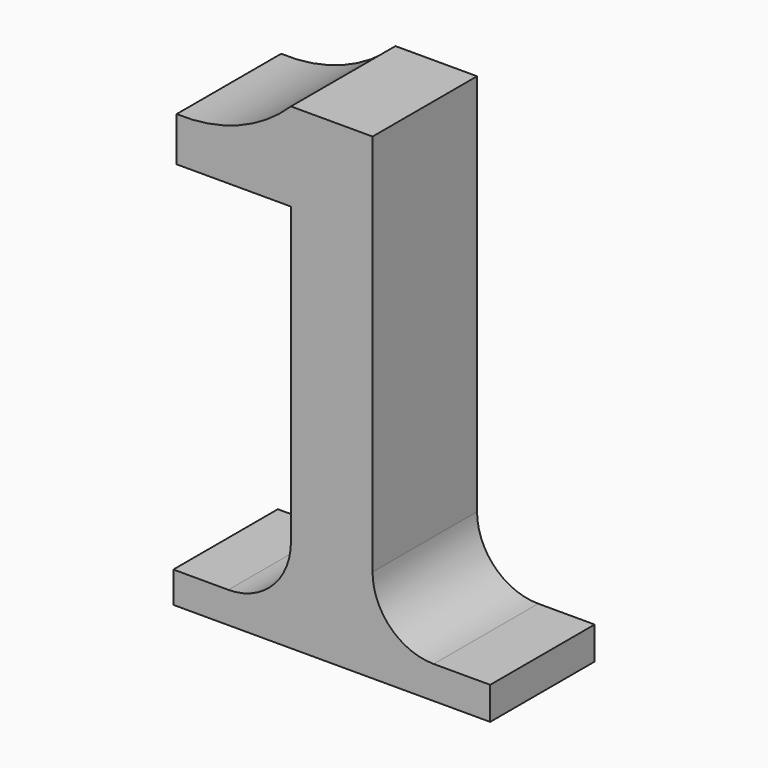
from build123d import *

# Parameters (mm, degrees)
F1_DEPTH = 10.16


with BuildPart() as f1:
    # F0 (on Front) → F1 (new body)
    with BuildSketch(Plane.XZ):
        with BuildLine():
            Line((3.175, -12.531403), (3.175, 17.285798))
            Line((3.175, 17.285798), (-3.175, 17.285798))
            ThreePointArc((-3.175, 17.285798), (-7.266525, 14.65801), (-12.065, 13.870302))
            Line((-12.065, 13.870302), (-12.065, 10.425861))
            Line((-12.065, 10.425861), (-3.175, 10.425861))
            Line((-3.175, 10.425861), (-3.175, -12.533976))
            ThreePointArc((-3.175, -12.533976), (-4.601328, -15.977436), (-8.044787, -17.403763))
            Line((-8.044787, -17.403763), (-12.323086, -17.403763))
            Line((-12.323086, -17.403763), (-12.323086, -19.825798))
            Line((-12.323086, -19.825798), (0, -19.825798))
            Line((0, -19.825798), (12.323086, -19.825798))
            Line((12.323086, -19.825798), (12.323086, -17.285798))
            Line((12.323086, -17.285798), (7.929395, -17.285798))
            ThreePointArc((7.929395, -17.285798), (4.56753, -15.893268), (3.175, -12.531403))
        make_face()
    extrude(amount=F1_DEPTH)


solid = f1.part
